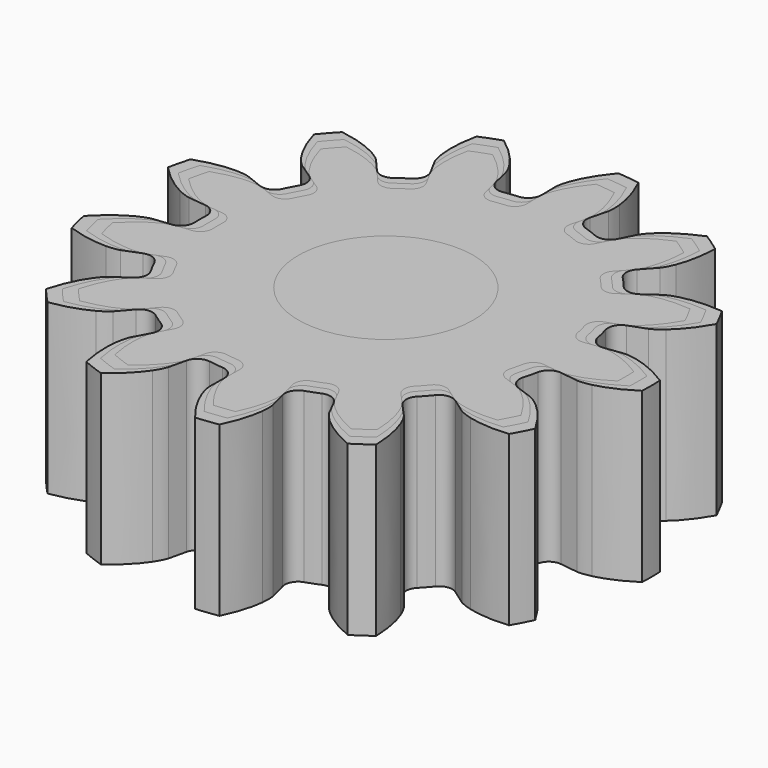
from build123d import *

# Parameters (mm, degrees)
PAD_DEPTH       = 10
PAD001_DEPTH    = 10
SKETCH_R        = 4.2
POCKET_DEPTH    = 10.001
CHAMFER_SIZE    = 1
PAD002_DEPTH    = 10
SKETCH001_R     = 4.2
POCKET001_DEPTH = 10.001
CHAMFER001_SIZE = 1


with BuildPart() as body:
    # InvoluteGear → Pad (new body)
    with BuildSketch(Plane.XY):
        with BuildLine():
            Line((11.677813, -1.594893), (12.742672, -1.73863))
            add(Edge.make_bspline(
                [(12.742672, -1.73863), (12.830943, -1.744238), (13.096082, -1.74849), (13.541059, -1.647831)],
                knots=[0, 0, 0, 0, 1, 1, 1, 1], degree=3))
            add(Edge.make_bspline(
                [(13.541059, -1.647831), (14.071244, -1.525068), (14.827678, -1.254324), (15.738726, -0.664597)],
                knots=[0, 0, 0, 0, 1, 1, 1, 1], degree=3))
            ThreePointArc((15.738726, -0.664597), (15.752754, 0), (15.738726, 0.664597))
            add(Edge.make_bspline(
                [(15.738726, 0.664597), (14.827678, 1.254324), (14.071244, 1.525068), (13.541059, 1.647831)],
                knots=[0, 0, 0, 0, 1, 1, 1, 1], degree=3))
            add(Edge.make_bspline(
                [(13.541059, 1.647831), (13.096082, 1.74849), (12.830943, 1.744238), (12.742672, 1.73863)],
                knots=[0, 0, 0, 0, 1, 1, 1, 1], degree=3))
            Line((12.742672, 1.73863), (11.677813, 1.594893))
            ThreePointArc((11.677813, 1.594893), (11.116721, 1.732062), (10.800161, 2.215208))
            ThreePointArc((10.800161, 2.215208), (10.704634, 2.638455), (10.592526, 3.057615))
            ThreePointArc((10.592526, 3.057615), (10.648297, 3.632533), (11.081374, 4.014742))
            Line((11.081374, 4.014742), (12.091057, 4.382335))
            add(Edge.make_bspline(
                [(12.091057, 4.382335), (12.171823, 4.418391), (12.408568, 4.537842), (12.755797, 4.833762)],
                knots=[0, 0, 0, 0, 1, 1, 1, 1], degree=3))
            add(Edge.make_bspline(
                [(12.755797, 4.833762), (13.168202, 5.188852), (13.71217, 5.780117), (14.244803, 6.725679)],
                knots=[0, 0, 0, 0, 1, 1, 1, 1], degree=3))
            ThreePointArc((14.244803, 6.725679), (13.948371, 7.32067), (13.627096, 7.902622))
            add(Edge.make_bspline(
                [(13.627096, 7.902622), (12.546344, 8.001414), (11.750733, 7.889614), (11.224227, 7.751925)],
                knots=[0, 0, 0, 0, 1, 1, 1, 1], degree=3))
            add(Edge.make_bspline(
                [(11.224227, 7.751925), (10.783441, 7.634263), (10.550648, 7.507282), (10.475094, 7.461295)],
                knots=[0, 0, 0, 0, 1, 1, 1, 1], degree=3))
            Line((10.475094, 7.461295), (9.599006, 6.839158))
            ThreePointArc((9.599006, 6.839158), (9.038438, 6.699863), (8.533609, 6.980555))
            ThreePointArc((8.533609, 6.980555), (8.252331, 7.310927), (7.958271, 7.629976))
            ThreePointArc((7.958271, 7.629976), (7.740477, 8.164958), (7.946325, 8.704649))
            Line((7.946325, 8.704649), (8.669527, 9.499359))
            add(Edge.make_bspline(
                [(8.669527, 9.499359), (8.724286, 9.568819), (8.878401, 9.784609), (9.048336, 10.207999)],
                knots=[0, 0, 0, 0, 1, 1, 1, 1], degree=3))
            add(Edge.make_bspline(
                [(9.048336, 10.207999), (9.248484, 10.714069), (9.455369, 11.490403), (9.487568, 12.575183)],
                knots=[0, 0, 0, 0, 1, 1, 1, 1], degree=3))
            ThreePointArc((9.487568, 12.575183), (8.948584, 12.964262), (8.393663, 13.330251))
            add(Edge.make_bspline(
                [(8.393663, 13.330251), (7.390793, 12.915477), (6.738271, 12.446744), (6.33606, 12.080148)],
                knots=[0, 0, 0, 0, 1, 1, 1, 1], degree=3))
            add(Edge.make_bspline(
                [(6.33606, 12.080148), (6.000444, 11.771119), (5.853327, 11.550499), (5.807798, 11.474668)],
                knots=[0, 0, 0, 0, 1, 1, 1, 1], degree=3))
            Line((5.807798, 11.474668), (5.321182, 10.516654))
            ThreePointArc((5.321182, 10.516654), (4.889558, 10.132805), (4.31211, 10.14674))
            ThreePointArc((4.31211, 10.14674), (3.909519, 10.308554), (3.500873, 10.454402))
            ThreePointArc((3.500873, 10.454402), (3.059406, 10.82689), (2.990869, 11.400425))
            Line((2.990869, 11.400425), (3.261913, 12.440195))
            add(Edge.make_bspline(
                [(3.261913, 12.440195), (3.27812, 12.527146), (3.314299, 12.789839), (3.26801, 13.243705)],
                knots=[0, 0, 0, 0, 1, 1, 1, 1], degree=3))
            add(Edge.make_bspline(
                [(3.26801, 13.243705), (3.21005, 13.784822), (3.032457, 14.568376), (2.556845, 15.543864)],
                knots=[0, 0, 0, 0, 1, 1, 1, 1], degree=3))
            ThreePointArc((2.556845, 15.543864), (1.898785, 15.637899), (1.237343, 15.704081))
            add(Edge.make_bspline(
                [(1.237343, 15.704081), (0.542101, 14.87076), (0.182152, 14.152475), (-0.003622, 13.640953)],
                knots=[0, 0, 0, 0, 1, 1, 1, 1], degree=3))
            add(Edge.make_bspline(
                [(-0.003622, 13.640953), (-0.157183, 13.211354), (-0.184921, 12.947635), (-0.189994, 12.859332)],
                knots=[0, 0, 0, 0, 1, 1, 1, 1], degree=3))
            Line((-0.189994, 12.859332), (-0.17566, 11.784912))
            ThreePointArc((-0.17566, 11.784912), (-0.379461, 11.244444), (-0.897241, 10.988429))
            ThreePointArc((-0.897241, 10.988429), (-1.328917, 10.944615), (-1.758534, 10.88385))
            ThreePointArc((-1.758534, 10.88385), (-2.322537, 11.008512), (-2.649758, 11.484502))
            Line((-2.649758, 11.484502), (-2.892967, 12.531132))
            add(Edge.make_bspline(
                [(-2.892967, 12.531132), (-2.919024, 12.615655), (-3.009068, 12.865072), (-3.260977, 13.245439)],
                knots=[0, 0, 0, 0, 1, 1, 1, 1], degree=3))
            add(Edge.make_bspline(
                [(-3.260977, 13.245439), (-3.563768, 13.697638), (-4.085154, 14.308909), (-4.95962, 14.951633)],
                knots=[0, 0, 0, 0, 1, 1, 1, 1], degree=3))
            ThreePointArc((-4.95962, 14.951633), (-5.586003, 14.729081), (-6.202438, 14.480295))
            add(Edge.make_bspline(
                [(-6.202438, 14.480295), (-6.43078, 13.41933), (-6.415696, 12.616045), (-6.342474, 12.076781)],
                knots=[0, 0, 0, 0, 1, 1, 1, 1], degree=3))
            add(Edge.make_bspline(
                [(-6.342474, 12.076781), (-6.278801, 11.625026), (-6.180806, 11.378625), (-6.144261, 11.298078)],
                knots=[0, 0, 0, 0, 1, 1, 1, 1], degree=3))
            Line((-6.144261, 11.298078), (-5.632261, 10.353388))
            ThreePointArc((-5.632261, 10.353388), (-5.56155, 9.780117), (-5.901046, 9.312802))
            ThreePointArc((-5.901046, 9.312802), (-6.262914, 9.073397), (-6.615082, 8.819939))
            ThreePointArc((-6.615082, 8.819939), (-7.172415, 8.668217), (-7.683359, 8.937617))
            Line((-7.683359, 8.937617), (-8.385102, 9.751338))
            add(Edge.make_bspline(
                [(-8.385102, 9.751338), (-8.447455, 9.81407), (-8.643095, 9.993072), (-9.042914, 10.212802)],
                knots=[0, 0, 0, 0, 1, 1, 1, 1], degree=3))
            add(Edge.make_bspline(
                [(-9.042914, 10.212802), (-9.52117, 10.472491), (-10.266906, 10.771444), (-11.339896, 10.934163)],
                knots=[0, 0, 0, 0, 1, 1, 1, 1], degree=3))
            ThreePointArc((-11.339896, 10.934163), (-11.791106, 10.446008), (-12.221315, 9.939248))
            add(Edge.make_bspline(
                [(-12.221315, 9.939248), (-11.930447, 8.893694), (-11.543785, 8.18943), (-11.228342, 7.745964)],
                knots=[0, 0, 0, 0, 1, 1, 1, 1], degree=3))
            add(Edge.make_bspline(
                [(-11.228342, 7.745964), (-10.962021, 7.375545), (-10.760742, 7.202908), (-10.690952, 7.148571)],
                knots=[0, 0, 0, 0, 1, 1, 1, 1], degree=3))
            Line((-10.690952, 7.148571), (-9.798578, 6.550028))
            ThreePointArc((-9.798578, 6.550028), (-9.469555, 6.075282), (-9.552991, 5.503724))
            ThreePointArc((-9.552991, 5.503724), (-9.762153, 5.123573), (-9.956194, 4.735486))
            ThreePointArc((-9.956194, 4.735486), (-10.379179, 4.342137), (-10.956794, 4.343232))
            Line((-10.956794, 4.343232), (-11.956312, 4.737629))
            add(Edge.make_bspline(
                [(-11.956312, 4.737629), (-12.040675, 4.764199), (-12.297092, 4.831779), (-12.753229, 4.840535)],
                knots=[0, 0, 0, 0, 1, 1, 1, 1], degree=3))
            add(Edge.make_bspline(
                [(-12.753229, 4.840535), (-13.297386, 4.848222), (-14.096633, 4.766371), (-15.122339, 4.411808)],
                knots=[0, 0, 0, 0, 1, 1, 1, 1], degree=3))
            ThreePointArc((-15.122339, 4.411808), (-15.295007, 3.769881), (-15.440435, 3.121239))
            add(Edge.make_bspline(
                [(-15.440435, 3.121239), (-14.696992, 2.33062), (-14.027332, 1.886716), (-13.541932, 1.64064)],
                knots=[0, 0, 0, 0, 1, 1, 1, 1], degree=3))
            add(Edge.make_bspline(
                [(-13.541932, 1.64064), (-13.133974, 1.436416), (-12.875522, 1.377092), (-12.788474, 1.361413)],
                knots=[0, 0, 0, 0, 1, 1, 1, 1], degree=3))
            Line((-12.788474, 1.361413), (-11.72016, 1.246135))
            ThreePointArc((-11.72016, 1.246135), (-11.208199, 0.978674), (-11.016462, 0.433809))
            ThreePointArc((-11.016462, 0.433809), (-11.025, 0), (-11.016462, -0.433809))
            ThreePointArc((-11.016462, -0.433809), (-11.208199, -0.978674), (-11.72016, -1.246135))
            Line((-11.72016, -1.246135), (-12.788474, -1.361413))
            add(Edge.make_bspline(
                [(-12.788474, -1.361413), (-12.875522, -1.377092), (-13.133974, -1.436416), (-13.541932, -1.64064)],
                knots=[0, 0, 0, 0, 1, 1, 1, 1], degree=3))
            add(Edge.make_bspline(
                [(-13.541932, -1.64064), (-14.027332, -1.886716), (-14.696992, -2.33062), (-15.440435, -3.121239)],
                knots=[0, 0, 0, 0, 1, 1, 1, 1], degree=3))
            ThreePointArc((-15.440435, -3.121239), (-15.295007, -3.769881), (-15.122339, -4.411808))
            add(Edge.make_bspline(
                [(-15.122339, -4.411808), (-14.096633, -4.766371), (-13.297386, -4.848222), (-12.753229, -4.840535)],
                knots=[0, 0, 0, 0, 1, 1, 1, 1], degree=3))
            add(Edge.make_bspline(
                [(-12.753229, -4.840535), (-12.297092, -4.831779), (-12.040675, -4.764199), (-11.956312, -4.737629)],
                knots=[0, 0, 0, 0, 1, 1, 1, 1], degree=3))
            Line((-11.956312, -4.737629), (-10.956794, -4.343232))
            ThreePointArc((-10.956794, -4.343232), (-10.379179, -4.342137), (-9.956194, -4.735486))
            ThreePointArc((-9.956194, -4.735486), (-9.762153, -5.123573), (-9.552991, -5.503724))
            ThreePointArc((-9.552991, -5.503724), (-9.469555, -6.075282), (-9.798578, -6.550028))
            Line((-9.798578, -6.550028), (-10.690952, -7.148571))
            add(Edge.make_bspline(
                [(-10.690952, -7.148571), (-10.760742, -7.202908), (-10.962021, -7.375545), (-11.228342, -7.745964)],
                knots=[0, 0, 0, 0, 1, 1, 1, 1], degree=3))
            add(Edge.make_bspline(
                [(-11.228342, -7.745964), (-11.543785, -8.18943), (-11.930447, -8.893694), (-12.221315, -9.939248)],
                knots=[0, 0, 0, 0, 1, 1, 1, 1], degree=3))
            ThreePointArc((-12.221315, -9.939248), (-11.791106, -10.446008), (-11.339896, -10.934163))
            add(Edge.make_bspline(
                [(-11.339896, -10.934163), (-10.266906, -10.771444), (-9.52117, -10.472491), (-9.042914, -10.212802)],
                knots=[0, 0, 0, 0, 1, 1, 1, 1], degree=3))
            add(Edge.make_bspline(
                [(-9.042914, -10.212802), (-8.643095, -9.993072), (-8.447455, -9.81407), (-8.385102, -9.751338)],
                knots=[0, 0, 0, 0, 1, 1, 1, 1], degree=3))
            Line((-8.385102, -9.751338), (-7.683359, -8.937617))
            ThreePointArc((-7.683359, -8.937617), (-7.172415, -8.668217), (-6.615082, -8.819939))
            ThreePointArc((-6.615082, -8.819939), (-6.262914, -9.073397), (-5.901046, -9.312802))
            ThreePointArc((-5.901046, -9.312802), (-5.56155, -9.780117), (-5.632261, -10.353388))
            Line((-5.632261, -10.353388), (-6.144261, -11.298078))
            add(Edge.make_bspline(
                [(-6.144261, -11.298078), (-6.180806, -11.378625), (-6.278801, -11.625026), (-6.342474, -12.076781)],
                knots=[0, 0, 0, 0, 1, 1, 1, 1], degree=3))
            add(Edge.make_bspline(
                [(-6.342474, -12.076781), (-6.415696, -12.616045), (-6.43078, -13.41933), (-6.202438, -14.480295)],
                knots=[0, 0, 0, 0, 1, 1, 1, 1], degree=3))
            ThreePointArc((-6.202438, -14.480295), (-5.586003, -14.729081), (-4.95962, -14.951633))
            add(Edge.make_bspline(
                [(-4.95962, -14.951633), (-4.085154, -14.308909), (-3.563768, -13.697638), (-3.260977, -13.245439)],
                knots=[0, 0, 0, 0, 1, 1, 1, 1], degree=3))
            add(Edge.make_bspline(
                [(-3.260977, -13.245439), (-3.009068, -12.865072), (-2.919024, -12.615655), (-2.892967, -12.531132)],
                knots=[0, 0, 0, 0, 1, 1, 1, 1], degree=3))
            Line((-2.892967, -12.531132), (-2.649758, -11.484502))
            ThreePointArc((-2.649758, -11.484502), (-2.322537, -11.008512), (-1.758534, -10.88385))
            ThreePointArc((-1.758534, -10.88385), (-1.328917, -10.944615), (-0.897241, -10.988429))
            ThreePointArc((-0.897241, -10.988429), (-0.379461, -11.244444), (-0.17566, -11.784912))
            Line((-0.17566, -11.784912), (-0.189994, -12.859332))
            add(Edge.make_bspline(
                [(-0.189994, -12.859332), (-0.184921, -12.947635), (-0.157183, -13.211354), (-0.003622, -13.640953)],
                knots=[0, 0, 0, 0, 1, 1, 1, 1], degree=3))
            add(Edge.make_bspline(
                [(-0.003622, -13.640953), (0.182152, -14.152475), (0.542101, -14.87076), (1.237343, -15.704081)],
                knots=[0, 0, 0, 0, 1, 1, 1, 1], degree=3))
            ThreePointArc((1.237343, -15.704081), (1.898785, -15.637899), (2.556845, -15.543864))
            add(Edge.make_bspline(
                [(2.556845, -15.543864), (3.032457, -14.568376), (3.21005, -13.784822), (3.26801, -13.243705)],
                knots=[0, 0, 0, 0, 1, 1, 1, 1], degree=3))
            add(Edge.make_bspline(
                [(3.26801, -13.243705), (3.314299, -12.789839), (3.27812, -12.527146), (3.261913, -12.440195)],
                knots=[0, 0, 0, 0, 1, 1, 1, 1], degree=3))
            Line((3.261913, -12.440195), (2.990869, -11.400425))
            ThreePointArc((2.990869, -11.400425), (3.059406, -10.82689), (3.500873, -10.454402))
            ThreePointArc((3.500873, -10.454402), (3.909519, -10.308554), (4.31211, -10.14674))
            ThreePointArc((4.31211, -10.14674), (4.889558, -10.132805), (5.321182, -10.516654))
            Line((5.321182, -10.516654), (5.807798, -11.474668))
            add(Edge.make_bspline(
                [(5.807798, -11.474668), (5.853327, -11.550499), (6.000444, -11.771119), (6.33606, -12.080148)],
                knots=[0, 0, 0, 0, 1, 1, 1, 1], degree=3))
            add(Edge.make_bspline(
                [(6.33606, -12.080148), (6.738271, -12.446744), (7.390793, -12.915477), (8.393663, -13.330251)],
                knots=[0, 0, 0, 0, 1, 1, 1, 1], degree=3))
            ThreePointArc((8.393663, -13.330251), (8.948584, -12.964262), (9.487568, -12.575183))
            add(Edge.make_bspline(
                [(9.487568, -12.575183), (9.455369, -11.490403), (9.248484, -10.714069), (9.048336, -10.207999)],
                knots=[0, 0, 0, 0, 1, 1, 1, 1], degree=3))
            add(Edge.make_bspline(
                [(9.048336, -10.207999), (8.878401, -9.784609), (8.724286, -9.568819), (8.669527, -9.499359)],
                knots=[0, 0, 0, 0, 1, 1, 1, 1], degree=3))
            Line((8.669527, -9.499359), (7.946325, -8.704649))
            ThreePointArc((7.946325, -8.704649), (7.740477, -8.164958), (7.958271, -7.629976))
            ThreePointArc((7.958271, -7.629976), (8.252331, -7.310927), (8.533609, -6.980555))
            ThreePointArc((8.533609, -6.980555), (9.038438, -6.699863), (9.599006, -6.839158))
            Line((9.599006, -6.839158), (10.475094, -7.461295))
            add(Edge.make_bspline(
                [(10.475094, -7.461295), (10.550648, -7.507282), (10.783441, -7.634263), (11.224227, -7.751925)],
                knots=[0, 0, 0, 0, 1, 1, 1, 1], degree=3))
            add(Edge.make_bspline(
                [(11.224227, -7.751925), (11.750733, -7.889614), (12.546344, -8.001414), (13.627096, -7.902622)],
                knots=[0, 0, 0, 0, 1, 1, 1, 1], degree=3))
            ThreePointArc((13.627096, -7.902622), (13.948371, -7.32067), (14.244803, -6.725679))
            add(Edge.make_bspline(
                [(14.244803, -6.725679), (13.71217, -5.780117), (13.168202, -5.188852), (12.755797, -4.833762)],
                knots=[0, 0, 0, 0, 1, 1, 1, 1], degree=3))
            add(Edge.make_bspline(
                [(12.755797, -4.833762), (12.408568, -4.537842), (12.171823, -4.418391), (12.091057, -4.382335)],
                knots=[0, 0, 0, 0, 1, 1, 1, 1], degree=3))
            Line((12.091057, -4.382335), (11.081374, -4.014742))
            ThreePointArc((11.081374, -4.014742), (10.648297, -3.632533), (10.592526, -3.057615))
            ThreePointArc((10.592526, -3.057615), (10.704634, -2.638455), (10.800161, -2.215208))
            ThreePointArc((10.800161, -2.215208), (11.116721, -1.732062), (11.677813, -1.594893))
        make_face()
    extrude(amount=PAD_DEPTH)


with BuildPart() as obj1:
    # InvoluteGear001 → Pad001 (new body)
    with BuildSketch(Plane.XY):
        with BuildLine():
            Line((11.121727, -1.518946), (12.135878, -1.655838))
            add(Edge.make_bspline(
                [(12.135878, -1.655838), (12.219946, -1.661179), (12.472459, -1.665228), (12.896247, -1.569363)],
                knots=[0, 0, 0, 0, 1, 1, 1, 1], degree=3))
            add(Edge.make_bspline(
                [(12.896247, -1.569363), (13.401185, -1.452446), (14.121598, -1.194594), (14.989263, -0.632949)],
                knots=[0, 0, 0, 0, 1, 1, 1, 1], degree=3))
            ThreePointArc((14.989263, -0.632949), (15.002623, 0), (14.989263, 0.632949))
            add(Edge.make_bspline(
                [(14.989263, 0.632949), (14.121598, 1.194594), (13.401185, 1.452446), (12.896247, 1.569363)],
                knots=[0, 0, 0, 0, 1, 1, 1, 1], degree=3))
            add(Edge.make_bspline(
                [(12.896247, 1.569363), (12.472459, 1.665228), (12.219946, 1.661179), (12.135878, 1.655838)],
                knots=[0, 0, 0, 0, 1, 1, 1, 1], degree=3))
            Line((12.135878, 1.655838), (11.121727, 1.518946))
            ThreePointArc((11.121727, 1.518946), (10.587353, 1.649583), (10.285868, 2.109722))
            ThreePointArc((10.285868, 2.109722), (10.194889, 2.512814), (10.08812, 2.912015))
            ThreePointArc((10.08812, 2.912015), (10.141235, 3.459555), (10.553689, 3.823564))
            Line((10.553689, 3.823564), (11.515293, 4.173652))
            add(Edge.make_bspline(
                [(11.515293, 4.173652), (11.592213, 4.207991), (11.817684, 4.321754), (12.148378, 4.603583)],
                knots=[0, 0, 0, 0, 1, 1, 1, 1], degree=3))
            add(Edge.make_bspline(
                [(12.148378, 4.603583), (12.541145, 4.941764), (13.05921, 5.504873), (13.566479, 6.405409)],
                knots=[0, 0, 0, 0, 1, 1, 1, 1], degree=3))
            ThreePointArc((13.566479, 6.405409), (13.284163, 6.972066), (12.978187, 7.526306))
            add(Edge.make_bspline(
                [(12.978187, 7.526306), (11.948899, 7.620394), (11.191174, 7.513918), (10.68974, 7.382786)],
                knots=[0, 0, 0, 0, 1, 1, 1, 1], degree=3))
            add(Edge.make_bspline(
                [(10.68974, 7.382786), (10.269944, 7.270727), (10.048236, 7.149793), (9.97628, 7.105995)],
                knots=[0, 0, 0, 0, 1, 1, 1, 1], degree=3))
            Line((9.97628, 7.105995), (9.14191, 6.513484))
            ThreePointArc((9.14191, 6.513484), (8.608036, 6.380822), (8.127247, 6.648147))
            ThreePointArc((8.127247, 6.648147), (7.859363, 6.962788), (7.579306, 7.266644))
            ThreePointArc((7.579306, 7.266644), (7.371882, 7.776151), (7.567929, 8.290142))
            Line((7.567929, 8.290142), (8.256692, 9.047009))
            add(Edge.make_bspline(
                [(8.256692, 9.047009), (8.308844, 9.113161), (8.45562, 9.318675), (8.617463, 9.721903)],
                knots=[0, 0, 0, 0, 1, 1, 1, 1], degree=3))
            add(Edge.make_bspline(
                [(8.617463, 9.721903), (8.80808, 10.203875), (9.005114, 10.943241), (9.035779, 11.976365)],
                knots=[0, 0, 0, 0, 1, 1, 1, 1], degree=3))
            ThreePointArc((9.035779, 11.976365), (8.522461, 12.346916), (7.993965, 12.695477))
            add(Edge.make_bspline(
                [(7.993965, 12.695477), (7.03885, 12.300454), (6.417401, 11.854042), (6.034343, 11.504902)],
                knots=[0, 0, 0, 0, 1, 1, 1, 1], degree=3))
            add(Edge.make_bspline(
                [(6.034343, 11.504902), (5.714708, 11.21059), (5.574597, 11.000475), (5.531236, 10.928255)],
                knots=[0, 0, 0, 0, 1, 1, 1, 1], degree=3))
            Line((5.531236, 10.928255), (5.067793, 10.015861))
            ThreePointArc((5.067793, 10.015861), (4.656722, 9.650291), (4.106771, 9.663562))
            ThreePointArc((4.106771, 9.663562), (3.723351, 9.817671), (3.334164, 9.956573))
            ThreePointArc((3.334164, 9.956573), (2.91372, 10.311324), (2.848447, 10.857548))
            Line((2.848447, 10.857548), (3.106584, 11.847805))
            add(Edge.make_bspline(
                [(3.106584, 11.847805), (3.122019, 11.930615), (3.156476, 12.180799), (3.112391, 12.613053)],
                knots=[0, 0, 0, 0, 1, 1, 1, 1], degree=3))
            add(Edge.make_bspline(
                [(3.112391, 12.613053), (3.05719, 13.128402), (2.888055, 13.874643), (2.43509, 14.80368)],
                knots=[0, 0, 0, 0, 1, 1, 1, 1], degree=3))
            ThreePointArc((2.43509, 14.80368), (1.808366, 14.893237), (1.178422, 14.956268))
            add(Edge.make_bspline(
                [(1.178422, 14.956268), (0.516286, 14.162628), (0.173478, 13.478548), (-0.003449, 12.991384)],
                knots=[0, 0, 0, 0, 1, 1, 1, 1], degree=3))
            add(Edge.make_bspline(
                [(-0.003449, 12.991384), (-0.149698, 12.582242), (-0.176115, 12.331081), (-0.180947, 12.246983)],
                knots=[0, 0, 0, 0, 1, 1, 1, 1], degree=3))
            Line((-0.180947, 12.246983), (-0.167295, 11.223725))
            ThreePointArc((-0.167295, 11.223725), (-0.361392, 10.708995), (-0.854516, 10.465171))
            ThreePointArc((-0.854516, 10.465171), (-1.265635, 10.423443), (-1.674794, 10.365571))
            ThreePointArc((-1.674794, 10.365571), (-2.21194, 10.484297), (-2.523579, 10.937621))
            Line((-2.523579, 10.937621), (-2.755206, 11.934411))
            add(Edge.make_bspline(
                [(-2.755206, 11.934411), (-2.780023, 12.01491), (-2.865779, 12.25245), (-3.105693, 12.614704)],
                knots=[0, 0, 0, 0, 1, 1, 1, 1], degree=3))
            add(Edge.make_bspline(
                [(-3.105693, 12.614704), (-3.394065, 13.04537), (-3.890623, 13.627532), (-4.723448, 14.239651)],
                knots=[0, 0, 0, 0, 1, 1, 1, 1], degree=3))
            ThreePointArc((-4.723448, 14.239651), (-5.320003, 14.027696), (-5.907084, 13.790757))
            add(Edge.make_bspline(
                [(-5.907084, 13.790757), (-6.124552, 12.780315), (-6.110186, 12.015281), (-6.040452, 11.501697)],
                knots=[0, 0, 0, 0, 1, 1, 1, 1], degree=3))
            add(Edge.make_bspline(
                [(-6.040452, 11.501697), (-5.97981, 11.071453), (-5.886482, 10.836785), (-5.851677, 10.760075)],
                knots=[0, 0, 0, 0, 1, 1, 1, 1], degree=3))
            Line((-5.851677, 10.760075), (-5.364058, 9.860369))
            ThreePointArc((-5.364058, 9.860369), (-5.296714, 9.314397), (-5.620043, 8.869335))
            ThreePointArc((-5.620043, 8.869335), (-5.96468, 8.641331), (-6.300078, 8.399942))
            ThreePointArc((-6.300078, 8.399942), (-6.830871, 8.255444), (-7.317484, 8.512016))
            Line((-7.317484, 8.512016), (-7.985811, 9.286988))
            add(Edge.make_bspline(
                [(-7.985811, 9.286988), (-8.045195, 9.346733), (-8.231519, 9.517211), (-8.612299, 9.726478)],
                knots=[0, 0, 0, 0, 1, 1, 1, 1], degree=3))
            add(Edge.make_bspline(
                [(-8.612299, 9.726478), (-9.067781, 9.973801), (-9.778006, 10.258518), (-10.799901, 10.413489)],
                knots=[0, 0, 0, 0, 1, 1, 1, 1], degree=3))
            ThreePointArc((-10.799901, 10.413489), (-11.229624, 9.948579), (-11.639347, 9.46595))
            add(Edge.make_bspline(
                [(-11.639347, 9.46595), (-11.36233, 8.470185), (-10.994081, 7.799458), (-10.693659, 7.377109)],
                knots=[0, 0, 0, 0, 1, 1, 1, 1], degree=3))
            add(Edge.make_bspline(
                [(-10.693659, 7.377109), (-10.44002, 7.024329), (-10.248326, 6.859913), (-10.181859, 6.808163)],
                knots=[0, 0, 0, 0, 1, 1, 1, 1], degree=3))
            Line((-10.181859, 6.808163), (-9.331979, 6.238122))
            ThreePointArc((-9.331979, 6.238122), (-9.018624, 5.785983), (-9.098087, 5.241642))
            ThreePointArc((-9.098087, 5.241642), (-9.297288, 4.879593), (-9.482089, 4.509987))
            ThreePointArc((-9.482089, 4.509987), (-9.884933, 4.135369), (-10.435042, 4.136412))
            Line((-10.435042, 4.136412), (-11.386963, 4.512028))
            add(Edge.make_bspline(
                [(-11.386963, 4.512028), (-11.46731, 4.537332), (-11.711517, 4.601694), (-12.145932, 4.610034)],
                knots=[0, 0, 0, 0, 1, 1, 1, 1], degree=3))
            add(Edge.make_bspline(
                [(-12.145932, 4.610034), (-12.664177, 4.617354), (-13.425365, 4.539401), (-14.402227, 4.201722)],
                knots=[0, 0, 0, 0, 1, 1, 1, 1], degree=3))
            ThreePointArc((-14.402227, 4.201722), (-14.566674, 3.590363), (-14.705177, 2.972608))
            add(Edge.make_bspline(
                [(-14.705177, 2.972608), (-13.997135, 2.219638), (-13.359364, 1.796873), (-12.897078, 1.562514)],
                knots=[0, 0, 0, 0, 1, 1, 1, 1], degree=3))
            add(Edge.make_bspline(
                [(-12.897078, 1.562514), (-12.508547, 1.368015), (-12.262402, 1.311516), (-12.179499, 1.296583)],
                knots=[0, 0, 0, 0, 1, 1, 1, 1], degree=3))
            Line((-12.179499, 1.296583), (-11.162057, 1.186795))
            ThreePointArc((-11.162057, 1.186795), (-10.674475, 0.93207), (-10.491869, 0.413152))
            ThreePointArc((-10.491869, 0.413152), (-10.5, 0), (-10.491869, -0.413152))
            ThreePointArc((-10.491869, -0.413152), (-10.674475, -0.93207), (-11.162057, -1.186795))
            Line((-11.162057, -1.186795), (-12.179499, -1.296583))
            add(Edge.make_bspline(
                [(-12.179499, -1.296583), (-12.262402, -1.311516), (-12.508547, -1.368015), (-12.897078, -1.562514)],
                knots=[0, 0, 0, 0, 1, 1, 1, 1], degree=3))
            add(Edge.make_bspline(
                [(-12.897078, -1.562514), (-13.359364, -1.796873), (-13.997135, -2.219638), (-14.705177, -2.972608)],
                knots=[0, 0, 0, 0, 1, 1, 1, 1], degree=3))
            ThreePointArc((-14.705177, -2.972608), (-14.566674, -3.590363), (-14.402227, -4.201722))
            add(Edge.make_bspline(
                [(-14.402227, -4.201722), (-13.425365, -4.539401), (-12.664177, -4.617354), (-12.145932, -4.610034)],
                knots=[0, 0, 0, 0, 1, 1, 1, 1], degree=3))
            add(Edge.make_bspline(
                [(-12.145932, -4.610034), (-11.711517, -4.601694), (-11.46731, -4.537332), (-11.386963, -4.512028)],
                knots=[0, 0, 0, 0, 1, 1, 1, 1], degree=3))
            Line((-11.386963, -4.512028), (-10.435042, -4.136412))
            ThreePointArc((-10.435042, -4.136412), (-9.884933, -4.135369), (-9.482089, -4.509987))
            ThreePointArc((-9.482089, -4.509987), (-9.297288, -4.879593), (-9.098087, -5.241642))
            ThreePointArc((-9.098087, -5.241642), (-9.018624, -5.785983), (-9.331979, -6.238122))
            Line((-9.331979, -6.238122), (-10.181859, -6.808163))
            add(Edge.make_bspline(
                [(-10.181859, -6.808163), (-10.248326, -6.859913), (-10.44002, -7.024329), (-10.693659, -7.377109)],
                knots=[0, 0, 0, 0, 1, 1, 1, 1], degree=3))
            add(Edge.make_bspline(
                [(-10.693659, -7.377109), (-10.994081, -7.799458), (-11.36233, -8.470185), (-11.639347, -9.46595)],
                knots=[0, 0, 0, 0, 1, 1, 1, 1], degree=3))
            ThreePointArc((-11.639347, -9.46595), (-11.229624, -9.948579), (-10.799901, -10.413489))
            add(Edge.make_bspline(
                [(-10.799901, -10.413489), (-9.778006, -10.258518), (-9.067781, -9.973801), (-8.612299, -9.726478)],
                knots=[0, 0, 0, 0, 1, 1, 1, 1], degree=3))
            add(Edge.make_bspline(
                [(-8.612299, -9.726478), (-8.231519, -9.517211), (-8.045195, -9.346733), (-7.985811, -9.286988)],
                knots=[0, 0, 0, 0, 1, 1, 1, 1], degree=3))
            Line((-7.985811, -9.286988), (-7.317484, -8.512016))
            ThreePointArc((-7.317484, -8.512016), (-6.830871, -8.255444), (-6.300078, -8.399942))
            ThreePointArc((-6.300078, -8.399942), (-5.96468, -8.641331), (-5.620043, -8.869335))
            ThreePointArc((-5.620043, -8.869335), (-5.296714, -9.314397), (-5.364058, -9.860369))
            Line((-5.364058, -9.860369), (-5.851677, -10.760075))
            add(Edge.make_bspline(
                [(-5.851677, -10.760075), (-5.886482, -10.836785), (-5.97981, -11.071453), (-6.040452, -11.501697)],
                knots=[0, 0, 0, 0, 1, 1, 1, 1], degree=3))
            add(Edge.make_bspline(
                [(-6.040452, -11.501697), (-6.110186, -12.015281), (-6.124552, -12.780315), (-5.907084, -13.790757)],
                knots=[0, 0, 0, 0, 1, 1, 1, 1], degree=3))
            ThreePointArc((-5.907084, -13.790757), (-5.320003, -14.027696), (-4.723448, -14.239651))
            add(Edge.make_bspline(
                [(-4.723448, -14.239651), (-3.890623, -13.627532), (-3.394065, -13.04537), (-3.105693, -12.614704)],
                knots=[0, 0, 0, 0, 1, 1, 1, 1], degree=3))
            add(Edge.make_bspline(
                [(-3.105693, -12.614704), (-2.865779, -12.25245), (-2.780023, -12.01491), (-2.755206, -11.934411)],
                knots=[0, 0, 0, 0, 1, 1, 1, 1], degree=3))
            Line((-2.755206, -11.934411), (-2.523579, -10.937621))
            ThreePointArc((-2.523579, -10.937621), (-2.21194, -10.484297), (-1.674794, -10.365571))
            ThreePointArc((-1.674794, -10.365571), (-1.265635, -10.423443), (-0.854516, -10.465171))
            ThreePointArc((-0.854516, -10.465171), (-0.361392, -10.708995), (-0.167295, -11.223725))
            Line((-0.167295, -11.223725), (-0.180947, -12.246983))
            add(Edge.make_bspline(
                [(-0.180947, -12.246983), (-0.176115, -12.331081), (-0.149698, -12.582242), (-0.003449, -12.991384)],
                knots=[0, 0, 0, 0, 1, 1, 1, 1], degree=3))
            add(Edge.make_bspline(
                [(-0.003449, -12.991384), (0.173478, -13.478548), (0.516286, -14.162628), (1.178422, -14.956268)],
                knots=[0, 0, 0, 0, 1, 1, 1, 1], degree=3))
            ThreePointArc((1.178422, -14.956268), (1.808366, -14.893237), (2.43509, -14.80368))
            add(Edge.make_bspline(
                [(2.43509, -14.80368), (2.888055, -13.874643), (3.05719, -13.128402), (3.112391, -12.613053)],
                knots=[0, 0, 0, 0, 1, 1, 1, 1], degree=3))
            add(Edge.make_bspline(
                [(3.112391, -12.613053), (3.156476, -12.180799), (3.122019, -11.930615), (3.106584, -11.847805)],
                knots=[0, 0, 0, 0, 1, 1, 1, 1], degree=3))
            Line((3.106584, -11.847805), (2.848447, -10.857548))
            ThreePointArc((2.848447, -10.857548), (2.91372, -10.311324), (3.334164, -9.956573))
            ThreePointArc((3.334164, -9.956573), (3.723351, -9.817671), (4.106771, -9.663562))
            ThreePointArc((4.106771, -9.663562), (4.656722, -9.650291), (5.067793, -10.015861))
            Line((5.067793, -10.015861), (5.531236, -10.928255))
            add(Edge.make_bspline(
                [(5.531236, -10.928255), (5.574597, -11.000475), (5.714708, -11.21059), (6.034343, -11.504902)],
                knots=[0, 0, 0, 0, 1, 1, 1, 1], degree=3))
            add(Edge.make_bspline(
                [(6.034343, -11.504902), (6.417401, -11.854042), (7.03885, -12.300454), (7.993965, -12.695477)],
                knots=[0, 0, 0, 0, 1, 1, 1, 1], degree=3))
            ThreePointArc((7.993965, -12.695477), (8.522461, -12.346916), (9.035779, -11.976365))
            add(Edge.make_bspline(
                [(9.035779, -11.976365), (9.005114, -10.943241), (8.80808, -10.203875), (8.617463, -9.721903)],
                knots=[0, 0, 0, 0, 1, 1, 1, 1], degree=3))
            add(Edge.make_bspline(
                [(8.617463, -9.721903), (8.45562, -9.318675), (8.308844, -9.113161), (8.256692, -9.047009)],
                knots=[0, 0, 0, 0, 1, 1, 1, 1], degree=3))
            Line((8.256692, -9.047009), (7.567929, -8.290142))
            ThreePointArc((7.567929, -8.290142), (7.371882, -7.776151), (7.579306, -7.266644))
            ThreePointArc((7.579306, -7.266644), (7.859363, -6.962788), (8.127247, -6.648147))
            ThreePointArc((8.127247, -6.648147), (8.608036, -6.380822), (9.14191, -6.513484))
            Line((9.14191, -6.513484), (9.97628, -7.105995))
            add(Edge.make_bspline(
                [(9.97628, -7.105995), (10.048236, -7.149793), (10.269944, -7.270727), (10.68974, -7.382786)],
                knots=[0, 0, 0, 0, 1, 1, 1, 1], degree=3))
            add(Edge.make_bspline(
                [(10.68974, -7.382786), (11.191174, -7.513918), (11.948899, -7.620394), (12.978187, -7.526306)],
                knots=[0, 0, 0, 0, 1, 1, 1, 1], degree=3))
            ThreePointArc((12.978187, -7.526306), (13.284163, -6.972066), (13.566479, -6.405409))
            add(Edge.make_bspline(
                [(13.566479, -6.405409), (13.05921, -5.504873), (12.541145, -4.941764), (12.148378, -4.603583)],
                knots=[0, 0, 0, 0, 1, 1, 1, 1], degree=3))
            add(Edge.make_bspline(
                [(12.148378, -4.603583), (11.817684, -4.321754), (11.592213, -4.207991), (11.515293, -4.173652)],
                knots=[0, 0, 0, 0, 1, 1, 1, 1], degree=3))
            Line((11.515293, -4.173652), (10.553689, -3.823564))
            ThreePointArc((10.553689, -3.823564), (10.141235, -3.459555), (10.08812, -2.912015))
            ThreePointArc((10.08812, -2.912015), (10.194889, -2.512814), (10.285868, -2.109722))
            ThreePointArc((10.285868, -2.109722), (10.587353, -1.649583), (11.121727, -1.518946))
        make_face()
    extrude(amount=PAD001_DEPTH)

    # Sketch (on Face132 of Pad001) → Pocket (cut, through all)
    with BuildSketch(Plane.XY.offset(10)):
        Circle(SKETCH_R)
    extrude(amount=-POCKET_DEPTH, mode=Mode.SUBTRACT)

    # Chamfer
    chamfer_edges = [obj1.edges().sort_by_distance(p)[0] for p in [
        (-4.2, 0, 10),
        (4.2, 0, 5),
        (-4.2, 0, 0),
    ]]
    chamfer(chamfer_edges, length=CHAMFER_SIZE)


with BuildPart() as body002:
    # InvoluteGear002 → Pad002 (new body)
    with BuildSketch(Plane.XY):
        with BuildLine():
            Line((10.56564, -1.442999), (11.529084, -1.573046))
            add(Edge.make_bspline(
                [(11.529084, -1.573046), (11.608948, -1.57812), (11.848836, -1.581967), (12.251434, -1.490894)],
                knots=[0, 0, 0, 0, 1, 1, 1, 1], degree=3))
            add(Edge.make_bspline(
                [(12.251434, -1.490894), (12.731125, -1.379824), (13.415518, -1.134864), (14.239799, -0.601302)],
                knots=[0, 0, 0, 0, 1, 1, 1, 1], degree=3))
            ThreePointArc((14.239799, -0.601302), (14.252492, 0), (14.239799, 0.601302))
            add(Edge.make_bspline(
                [(14.239799, 0.601302), (13.415518, 1.134864), (12.731125, 1.379824), (12.251434, 1.490894)],
                knots=[0, 0, 0, 0, 1, 1, 1, 1], degree=3))
            add(Edge.make_bspline(
                [(12.251434, 1.490894), (11.848836, 1.581967), (11.608948, 1.57812), (11.529084, 1.573046)],
                knots=[0, 0, 0, 0, 1, 1, 1, 1], degree=3))
            Line((11.529084, 1.573046), (10.56564, 1.442999))
            ThreePointArc((10.56564, 1.442999), (10.057985, 1.567104), (9.771574, 2.004236))
            ThreePointArc((9.771574, 2.004236), (9.685145, 2.387174), (9.583714, 2.766414))
            ThreePointArc((9.583714, 2.766414), (9.634173, 3.286577), (10.026005, 3.632386))
            Line((10.026005, 3.632386), (10.939528, 3.964969))
            add(Edge.make_bspline(
                [(10.939528, 3.964969), (11.012602, 3.997591), (11.2268, 4.105667), (11.54096, 4.373404)],
                knots=[0, 0, 0, 0, 1, 1, 1, 1], degree=3))
            add(Edge.make_bspline(
                [(11.54096, 4.373404), (11.914088, 4.694676), (12.406249, 5.22963), (12.888155, 6.085138)],
                knots=[0, 0, 0, 0, 1, 1, 1, 1], degree=3))
            ThreePointArc((12.888155, 6.085138), (12.619955, 6.623463), (12.329277, 7.149991))
            add(Edge.make_bspline(
                [(12.329277, 7.149991), (11.351454, 7.239375), (10.631616, 7.138222), (10.155253, 7.013647)],
                knots=[0, 0, 0, 0, 1, 1, 1, 1], degree=3))
            add(Edge.make_bspline(
                [(10.155253, 7.013647), (9.756446, 6.907191), (9.545824, 6.792303), (9.477466, 6.750696)],
                knots=[0, 0, 0, 0, 1, 1, 1, 1], degree=3))
            Line((9.477466, 6.750696), (8.684815, 6.18781))
            ThreePointArc((8.684815, 6.18781), (8.177634, 6.061781), (7.720884, 6.31574))
            ThreePointArc((7.720884, 6.31574), (7.466395, 6.614649), (7.200341, 6.903312))
            ThreePointArc((7.200341, 6.903312), (7.003288, 7.387343), (7.189532, 7.875635))
            Line((7.189532, 7.875635), (7.843858, 8.594658))
            add(Edge.make_bspline(
                [(7.843858, 8.594658), (7.893401, 8.657503), (8.032839, 8.852741), (8.18659, 9.235808)],
                knots=[0, 0, 0, 0, 1, 1, 1, 1], degree=3))
            add(Edge.make_bspline(
                [(8.18659, 9.235808), (8.367676, 9.693681), (8.554858, 10.396079), (8.58399, 11.377547)],
                knots=[0, 0, 0, 0, 1, 1, 1, 1], degree=3))
            ThreePointArc((8.58399, 11.377547), (8.096338, 11.729571), (7.594266, 12.060704))
            add(Edge.make_bspline(
                [(7.594266, 12.060704), (6.686908, 11.685431), (6.096531, 11.26134), (5.732626, 10.929657)],
                knots=[0, 0, 0, 0, 1, 1, 1, 1], degree=3))
            add(Edge.make_bspline(
                [(5.732626, 10.929657), (5.428973, 10.65006), (5.295867, 10.450451), (5.254675, 10.381842)],
                knots=[0, 0, 0, 0, 1, 1, 1, 1], degree=3))
            Line((5.254675, 10.381842), (4.814403, 9.515068))
            ThreePointArc((4.814403, 9.515068), (4.423885, 9.167776), (3.901433, 9.180384))
            ThreePointArc((3.901433, 9.180384), (3.537184, 9.326787), (3.167456, 9.458744))
            ThreePointArc((3.167456, 9.458744), (2.768034, 9.795758), (2.706025, 10.314671))
            Line((2.706025, 10.314671), (2.951254, 11.255414))
            add(Edge.make_bspline(
                [(2.951254, 11.255414), (2.965918, 11.334085), (2.998652, 11.571759), (2.956771, 11.9824)],
                knots=[0, 0, 0, 0, 1, 1, 1, 1], degree=3))
            add(Edge.make_bspline(
                [(2.956771, 11.9824), (2.904331, 12.471982), (2.743652, 13.180911), (2.313336, 14.063496)],
                knots=[0, 0, 0, 0, 1, 1, 1, 1], degree=3))
            ThreePointArc((2.313336, 14.063496), (1.717948, 14.148575), (1.119501, 14.208454))
            add(Edge.make_bspline(
                [(1.119501, 14.208454), (0.490472, 13.454497), (0.164804, 12.80462), (-0.003277, 12.341815)],
                knots=[0, 0, 0, 0, 1, 1, 1, 1], degree=3))
            add(Edge.make_bspline(
                [(-0.003277, 12.341815), (-0.142213, 11.953129), (-0.16731, 11.714527), (-0.171899, 11.634634)],
                knots=[0, 0, 0, 0, 1, 1, 1, 1], degree=3))
            Line((-0.171899, 11.634634), (-0.15893, 10.662539))
            ThreePointArc((-0.15893, 10.662539), (-0.343322, 10.173545), (-0.81179, 9.941912))
            ThreePointArc((-0.81179, 9.941912), (-1.202353, 9.902271), (-1.591055, 9.847293))
            ThreePointArc((-1.591055, 9.847293), (-2.101343, 9.960082), (-2.397401, 10.39074))
            Line((-2.397401, 10.39074), (-2.617446, 11.337691))
            add(Edge.make_bspline(
                [(-2.617446, 11.337691), (-2.641022, 11.414164), (-2.72249, 11.639827), (-2.950408, 11.983969)],
                knots=[0, 0, 0, 0, 1, 1, 1, 1], degree=3))
            add(Edge.make_bspline(
                [(-2.950408, 11.983969), (-3.224362, 12.393101), (-3.696092, 12.946156), (-4.487276, 13.527668)],
                knots=[0, 0, 0, 0, 1, 1, 1, 1], degree=3))
            ThreePointArc((-4.487276, 13.527668), (-5.054003, 13.326311), (-5.611729, 13.101219))
            add(Edge.make_bspline(
                [(-5.611729, 13.101219), (-5.818325, 12.141299), (-5.804677, 11.414517), (-5.738429, 10.926612)],
                knots=[0, 0, 0, 0, 1, 1, 1, 1], degree=3))
            add(Edge.make_bspline(
                [(-5.738429, 10.926612), (-5.68082, 10.517881), (-5.592158, 10.294946), (-5.559093, 10.222071)],
                knots=[0, 0, 0, 0, 1, 1, 1, 1], degree=3))
            Line((-5.559093, 10.222071), (-5.095855, 9.367351))
            ThreePointArc((-5.095855, 9.367351), (-5.031879, 8.848677), (-5.339041, 8.425869))
            ThreePointArc((-5.339041, 8.425869), (-5.666446, 8.209264), (-5.985074, 7.979945))
            ThreePointArc((-5.985074, 7.979945), (-6.489328, 7.842672), (-6.95161, 8.086415))
            Line((-6.95161, 8.086415), (-7.586521, 8.822639))
            add(Edge.make_bspline(
                [(-7.586521, 8.822639), (-7.642935, 8.879396), (-7.819943, 9.041351), (-8.181684, 9.240154)],
                knots=[0, 0, 0, 0, 1, 1, 1, 1], degree=3))
            add(Edge.make_bspline(
                [(-8.181684, 9.240154), (-8.614392, 9.475111), (-9.289105, 9.745592), (-10.259906, 9.892815)],
                knots=[0, 0, 0, 0, 1, 1, 1, 1], degree=3))
            ThreePointArc((-10.259906, 9.892815), (-10.668143, 9.45115), (-11.05738, 8.992653))
            add(Edge.make_bspline(
                [(-11.05738, 8.992653), (-10.794214, 8.046676), (-10.444377, 7.409485), (-10.158976, 7.008253)],
                knots=[0, 0, 0, 0, 1, 1, 1, 1], degree=3))
            add(Edge.make_bspline(
                [(-10.158976, 7.008253), (-9.918019, 6.673112), (-9.73591, 6.516917), (-9.672766, 6.467755)],
                knots=[0, 0, 0, 0, 1, 1, 1, 1], degree=3))
            Line((-9.672766, 6.467755), (-8.86538, 5.926215))
            ThreePointArc((-8.86538, 5.926215), (-8.567692, 5.496684), (-8.643183, 4.97956))
            ThreePointArc((-8.643183, 4.97956), (-8.832424, 4.635614), (-9.007985, 4.284487))
            ThreePointArc((-9.007985, 4.284487), (-9.390686, 3.9286), (-9.91329, 3.929591))
            Line((-9.91329, 3.929591), (-10.817615, 4.286427))
            add(Edge.make_bspline(
                [(-10.817615, 4.286427), (-10.893944, 4.310466), (-11.125941, 4.37161), (-11.538636, 4.379532)],
                knots=[0, 0, 0, 0, 1, 1, 1, 1], degree=3))
            add(Edge.make_bspline(
                [(-11.538636, 4.379532), (-12.030968, 4.386486), (-12.754097, 4.312431), (-13.682116, 3.991636)],
                knots=[0, 0, 0, 0, 1, 1, 1, 1], degree=3))
            ThreePointArc((-13.682116, 3.991636), (-13.83834, 3.410844), (-13.969918, 2.823978))
            add(Edge.make_bspline(
                [(-13.969918, 2.823978), (-13.297278, 2.108656), (-12.691395, 1.707029), (-12.252224, 1.484388)],
                knots=[0, 0, 0, 0, 1, 1, 1, 1], degree=3))
            add(Edge.make_bspline(
                [(-12.252224, 1.484388), (-11.88312, 1.299614), (-11.649282, 1.245941), (-11.570524, 1.231754)],
                knots=[0, 0, 0, 0, 1, 1, 1, 1], degree=3))
            Line((-11.570524, 1.231754), (-10.603954, 1.127456))
            ThreePointArc((-10.603954, 1.127456), (-10.140751, 0.885467), (-9.967275, 0.392494))
            ThreePointArc((-9.967275, 0.392494), (-9.975, 0), (-9.967275, -0.392494))
            ThreePointArc((-9.967275, -0.392494), (-10.140751, -0.885467), (-10.603954, -1.127456))
            Line((-10.603954, -1.127456), (-11.570524, -1.231754))
            add(Edge.make_bspline(
                [(-11.570524, -1.231754), (-11.649282, -1.245941), (-11.88312, -1.299614), (-12.252224, -1.484388)],
                knots=[0, 0, 0, 0, 1, 1, 1, 1], degree=3))
            add(Edge.make_bspline(
                [(-12.252224, -1.484388), (-12.691395, -1.707029), (-13.297278, -2.108656), (-13.969918, -2.823978)],
                knots=[0, 0, 0, 0, 1, 1, 1, 1], degree=3))
            ThreePointArc((-13.969918, -2.823978), (-13.83834, -3.410844), (-13.682116, -3.991636))
            add(Edge.make_bspline(
                [(-13.682116, -3.991636), (-12.754097, -4.312431), (-12.030968, -4.386486), (-11.538636, -4.379532)],
                knots=[0, 0, 0, 0, 1, 1, 1, 1], degree=3))
            add(Edge.make_bspline(
                [(-11.538636, -4.379532), (-11.125941, -4.37161), (-10.893944, -4.310466), (-10.817615, -4.286427)],
                knots=[0, 0, 0, 0, 1, 1, 1, 1], degree=3))
            Line((-10.817615, -4.286427), (-9.91329, -3.929591))
            ThreePointArc((-9.91329, -3.929591), (-9.390686, -3.9286), (-9.007985, -4.284487))
            ThreePointArc((-9.007985, -4.284487), (-8.832424, -4.635614), (-8.643183, -4.97956))
            ThreePointArc((-8.643183, -4.97956), (-8.567692, -5.496684), (-8.86538, -5.926215))
            Line((-8.86538, -5.926215), (-9.672766, -6.467755))
            add(Edge.make_bspline(
                [(-9.672766, -6.467755), (-9.73591, -6.516917), (-9.918019, -6.673112), (-10.158976, -7.008253)],
                knots=[0, 0, 0, 0, 1, 1, 1, 1], degree=3))
            add(Edge.make_bspline(
                [(-10.158976, -7.008253), (-10.444377, -7.409485), (-10.794214, -8.046676), (-11.05738, -8.992653)],
                knots=[0, 0, 0, 0, 1, 1, 1, 1], degree=3))
            ThreePointArc((-11.05738, -8.992653), (-10.668143, -9.45115), (-10.259906, -9.892815))
            add(Edge.make_bspline(
                [(-10.259906, -9.892815), (-9.289105, -9.745592), (-8.614392, -9.475111), (-8.181684, -9.240154)],
                knots=[0, 0, 0, 0, 1, 1, 1, 1], degree=3))
            add(Edge.make_bspline(
                [(-8.181684, -9.240154), (-7.819943, -9.041351), (-7.642935, -8.879396), (-7.586521, -8.822639)],
                knots=[0, 0, 0, 0, 1, 1, 1, 1], degree=3))
            Line((-7.586521, -8.822639), (-6.95161, -8.086415))
            ThreePointArc((-6.95161, -8.086415), (-6.489328, -7.842672), (-5.985074, -7.979945))
            ThreePointArc((-5.985074, -7.979945), (-5.666446, -8.209264), (-5.339041, -8.425869))
            ThreePointArc((-5.339041, -8.425869), (-5.031879, -8.848677), (-5.095855, -9.367351))
            Line((-5.095855, -9.367351), (-5.559093, -10.222071))
            add(Edge.make_bspline(
                [(-5.559093, -10.222071), (-5.592158, -10.294946), (-5.68082, -10.517881), (-5.738429, -10.926612)],
                knots=[0, 0, 0, 0, 1, 1, 1, 1], degree=3))
            add(Edge.make_bspline(
                [(-5.738429, -10.926612), (-5.804677, -11.414517), (-5.818325, -12.141299), (-5.611729, -13.101219)],
                knots=[0, 0, 0, 0, 1, 1, 1, 1], degree=3))
            ThreePointArc((-5.611729, -13.101219), (-5.054003, -13.326311), (-4.487276, -13.527668))
            add(Edge.make_bspline(
                [(-4.487276, -13.527668), (-3.696092, -12.946156), (-3.224362, -12.393101), (-2.950408, -11.983969)],
                knots=[0, 0, 0, 0, 1, 1, 1, 1], degree=3))
            add(Edge.make_bspline(
                [(-2.950408, -11.983969), (-2.72249, -11.639827), (-2.641022, -11.414164), (-2.617446, -11.337691)],
                knots=[0, 0, 0, 0, 1, 1, 1, 1], degree=3))
            Line((-2.617446, -11.337691), (-2.397401, -10.39074))
            ThreePointArc((-2.397401, -10.39074), (-2.101343, -9.960082), (-1.591055, -9.847293))
            ThreePointArc((-1.591055, -9.847293), (-1.202353, -9.902271), (-0.81179, -9.941912))
            ThreePointArc((-0.81179, -9.941912), (-0.343322, -10.173545), (-0.15893, -10.662539))
            Line((-0.15893, -10.662539), (-0.171899, -11.634634))
            add(Edge.make_bspline(
                [(-0.171899, -11.634634), (-0.16731, -11.714527), (-0.142213, -11.953129), (-0.003277, -12.341815)],
                knots=[0, 0, 0, 0, 1, 1, 1, 1], degree=3))
            add(Edge.make_bspline(
                [(-0.003277, -12.341815), (0.164804, -12.80462), (0.490472, -13.454497), (1.119501, -14.208454)],
                knots=[0, 0, 0, 0, 1, 1, 1, 1], degree=3))
            ThreePointArc((1.119501, -14.208454), (1.717948, -14.148575), (2.313336, -14.063496))
            add(Edge.make_bspline(
                [(2.313336, -14.063496), (2.743652, -13.180911), (2.904331, -12.471982), (2.956771, -11.9824)],
                knots=[0, 0, 0, 0, 1, 1, 1, 1], degree=3))
            add(Edge.make_bspline(
                [(2.956771, -11.9824), (2.998652, -11.571759), (2.965918, -11.334085), (2.951254, -11.255414)],
                knots=[0, 0, 0, 0, 1, 1, 1, 1], degree=3))
            Line((2.951254, -11.255414), (2.706025, -10.314671))
            ThreePointArc((2.706025, -10.314671), (2.768034, -9.795758), (3.167456, -9.458744))
            ThreePointArc((3.167456, -9.458744), (3.537184, -9.326787), (3.901433, -9.180384))
            ThreePointArc((3.901433, -9.180384), (4.423885, -9.167776), (4.814403, -9.515068))
            Line((4.814403, -9.515068), (5.254675, -10.381842))
            add(Edge.make_bspline(
                [(5.254675, -10.381842), (5.295867, -10.450451), (5.428973, -10.65006), (5.732626, -10.929657)],
                knots=[0, 0, 0, 0, 1, 1, 1, 1], degree=3))
            add(Edge.make_bspline(
                [(5.732626, -10.929657), (6.096531, -11.26134), (6.686908, -11.685431), (7.594266, -12.060704)],
                knots=[0, 0, 0, 0, 1, 1, 1, 1], degree=3))
            ThreePointArc((7.594266, -12.060704), (8.096338, -11.729571), (8.58399, -11.377547))
            add(Edge.make_bspline(
                [(8.58399, -11.377547), (8.554858, -10.396079), (8.367676, -9.693681), (8.18659, -9.235808)],
                knots=[0, 0, 0, 0, 1, 1, 1, 1], degree=3))
            add(Edge.make_bspline(
                [(8.18659, -9.235808), (8.032839, -8.852741), (7.893401, -8.657503), (7.843858, -8.594658)],
                knots=[0, 0, 0, 0, 1, 1, 1, 1], degree=3))
            Line((7.843858, -8.594658), (7.189532, -7.875635))
            ThreePointArc((7.189532, -7.875635), (7.003288, -7.387343), (7.200341, -6.903312))
            ThreePointArc((7.200341, -6.903312), (7.466395, -6.614649), (7.720884, -6.31574))
            ThreePointArc((7.720884, -6.31574), (8.177634, -6.061781), (8.684815, -6.18781))
            Line((8.684815, -6.18781), (9.477466, -6.750696))
            add(Edge.make_bspline(
                [(9.477466, -6.750696), (9.545824, -6.792303), (9.756446, -6.907191), (10.155253, -7.013647)],
                knots=[0, 0, 0, 0, 1, 1, 1, 1], degree=3))
            add(Edge.make_bspline(
                [(10.155253, -7.013647), (10.631616, -7.138222), (11.351454, -7.239375), (12.329277, -7.149991)],
                knots=[0, 0, 0, 0, 1, 1, 1, 1], degree=3))
            ThreePointArc((12.329277, -7.149991), (12.619955, -6.623463), (12.888155, -6.085138))
            add(Edge.make_bspline(
                [(12.888155, -6.085138), (12.406249, -5.22963), (11.914088, -4.694676), (11.54096, -4.373404)],
                knots=[0, 0, 0, 0, 1, 1, 1, 1], degree=3))
            add(Edge.make_bspline(
                [(11.54096, -4.373404), (11.2268, -4.105667), (11.012602, -3.997591), (10.939528, -3.964969)],
                knots=[0, 0, 0, 0, 1, 1, 1, 1], degree=3))
            Line((10.939528, -3.964969), (10.026005, -3.632386))
            ThreePointArc((10.026005, -3.632386), (9.634173, -3.286577), (9.583714, -2.766414))
            ThreePointArc((9.583714, -2.766414), (9.685145, -2.387174), (9.771574, -2.004236))
            ThreePointArc((9.771574, -2.004236), (10.057985, -1.567104), (10.56564, -1.442999))
        make_face()
    extrude(amount=PAD002_DEPTH)

    # Sketch001 (on Face132 of Pad002) → Pocket001 (cut, through all)
    with BuildSketch(Plane.XY.offset(10)):
        Circle(SKETCH001_R)
    extrude(amount=-POCKET001_DEPTH, mode=Mode.SUBTRACT)

    # Chamfer001
    chamfer001_edges = [body002.edges().sort_by_distance(p)[0] for p in [
        (-4.2, 0, 10),
        (4.2, 0, 5),
        (-4.2, 0, 0),
    ]]
    chamfer(chamfer001_edges, length=CHAMFER001_SIZE)


solid = Compound([body.part, obj1.part, body002.part])
